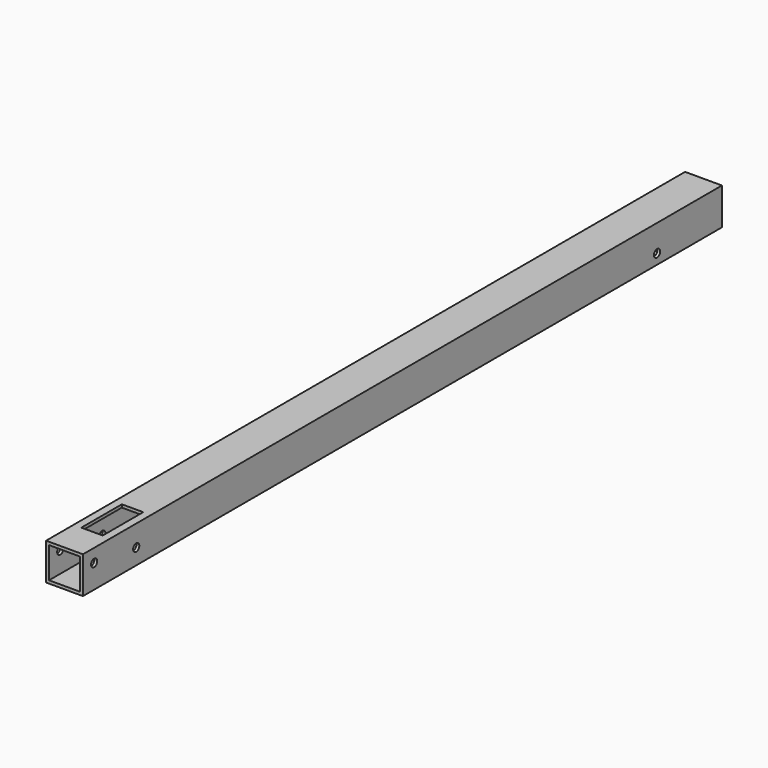
from build123d import *

# Parameters (mm, degrees)
F0_W          = 19.05
F0_H          = 19.05
F0_W_2        = 16.002
F0_H_2        = 16.002
F1_DEPTH      = 412.75
F2_R          = 1.9812
F3_DEPTH      = 25.4
F3_DEPTH_BACK = 25.4
F4_W          = 15.24
F4_H          = 40.386
F4_H_2        = 18.415
F5_DEPTH      = 6.35
F6_W          = 11.049
F6_H          = 26.162
F7_DEPTH      = 6.35


with BuildPart() as f1:
    # F0 (on Front) → F1 (new body)
    with BuildSketch(Plane.XZ):
        Rectangle(F0_W, F0_H)
        Rectangle(F0_W_2, F0_H_2, mode=Mode.SUBTRACT)
    extrude(amount=F1_DEPTH)

    # F2 (on Right) → F3 (cut, two sides)
    with BuildSketch(Plane.YZ) as f3_sk:
        with Locations((-405.511, 2.667)):
            Circle(F2_R)
        with Locations((-378.333, -1.397)):
            Circle(F2_R)
        with Locations((-41.91, -4.318)):
            Circle(F2_R)
    extrude(amount=-F3_DEPTH, mode=Mode.SUBTRACT)
    extrude(f3_sk.sketch, amount=F3_DEPTH_BACK, mode=Mode.SUBTRACT)

    # F4 (on face) → F5 (cut)
    with BuildSketch(Plane(origin=(0, 0, -9.525), x_dir=(1, 0, 0), z_dir=(0, 0, -1))):
        with Locations((0, 50.927)):
            Rectangle(F4_W, F4_H)
        with Locations((0, 372.1735)):
            Rectangle(F4_W, F4_H_2)
    extrude(amount=-F5_DEPTH, mode=Mode.SUBTRACT)

    # F6 (on face) → F7 (cut)
    with BuildSketch(Plane.XY.offset(9.525)):
        with Locations((0, -381.889)):
            Rectangle(F6_W, F6_H)
    extrude(amount=-F7_DEPTH, mode=Mode.SUBTRACT)


solid = f1.part
